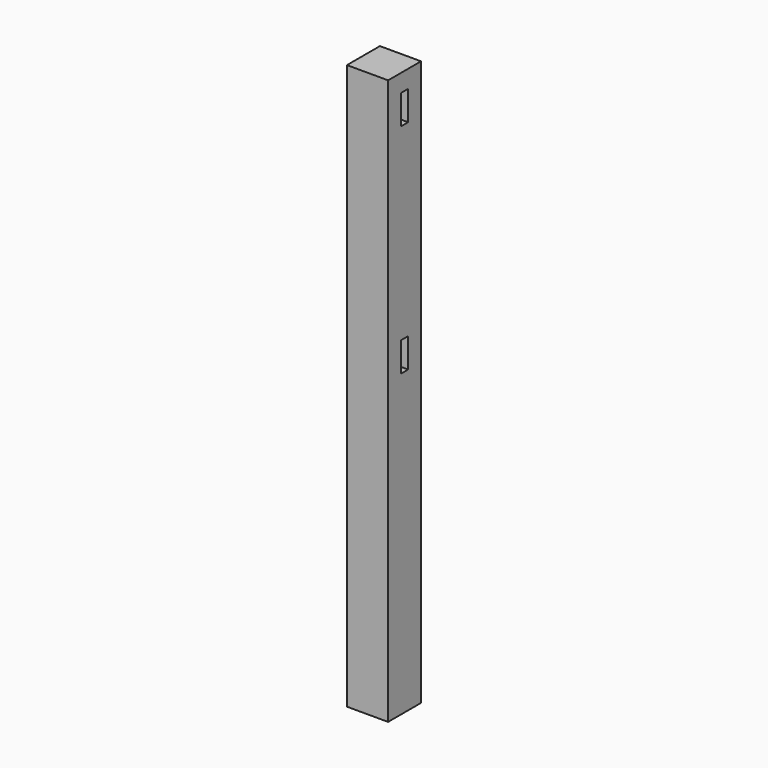
from build123d import *

# Parameters (mm, degrees)
F0_W     = 88.9
F0_H     = 88.9
F1_DEPTH = 1219.2
F2_W     = 19.05
F2_H     = 63.5
F3_DEPTH = 88.901


with BuildPart() as f1:
    # F0 (on Top) → F1 (new body)
    with BuildSketch(Plane.XY):
        Rectangle(F0_W, F0_H)
    extrude(amount=F1_DEPTH)

    # F2 (on face) → F3 (cut, through all)
    with BuildSketch(Plane.YZ.offset(44.45)):
        with Locations((0, 679.45)):
            Rectangle(F2_W, F2_H)
        with Locations((0, 1149.35)):
            Rectangle(F2_W, F2_H)
    extrude(amount=-F3_DEPTH, mode=Mode.SUBTRACT)


solid = f1.part
